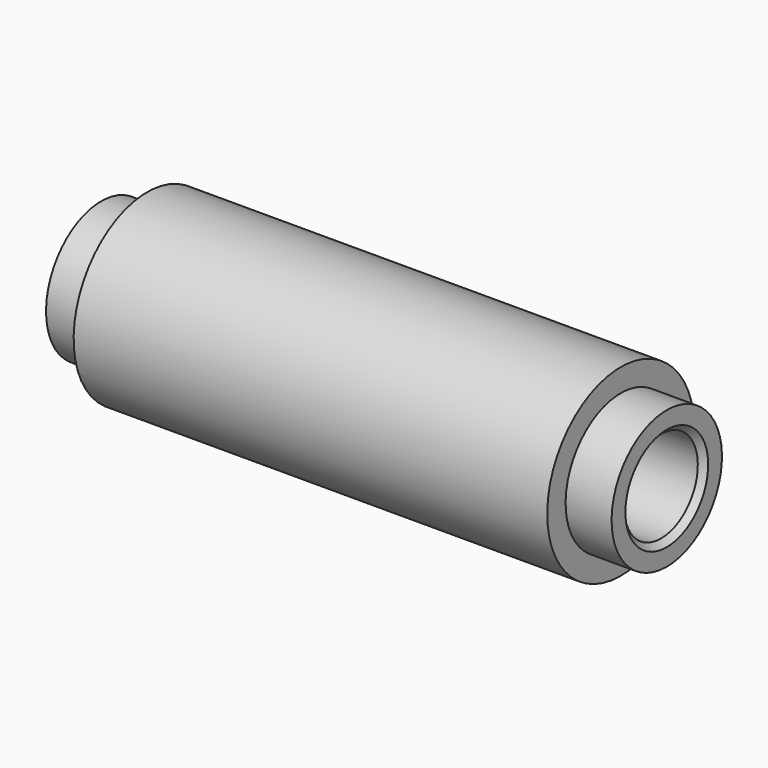
from build123d import *

# Parameters (mm, degrees)
F2_SIZE2 = 0.25
F2_SIZE  = 0.25


with BuildPart() as f1:
    # F0 (on Front) → F1 (revolve)
    with BuildSketch(Plane.XZ):
        Polygon((12.3, -2), (-12.3, -2), (-12.3, -3), (-10.3, -3), (-10.3, -4), (10.3, -4), (10.3, -3), (12.3, -3), align=None)
    revolve(axis=Axis((-53.131774, 0, 0), (1, 0, 0)))

    # F2
    f2_edges = [f1.edges().sort_by_distance(p)[0] for p in [
        (12.3, 0, 2),
        (-12.3, 0, 2),
        (0, 0, -2),
    ]]
    chamfer(f2_edges, length=F2_SIZE, length2=F2_SIZE2)


solid = f1.part
